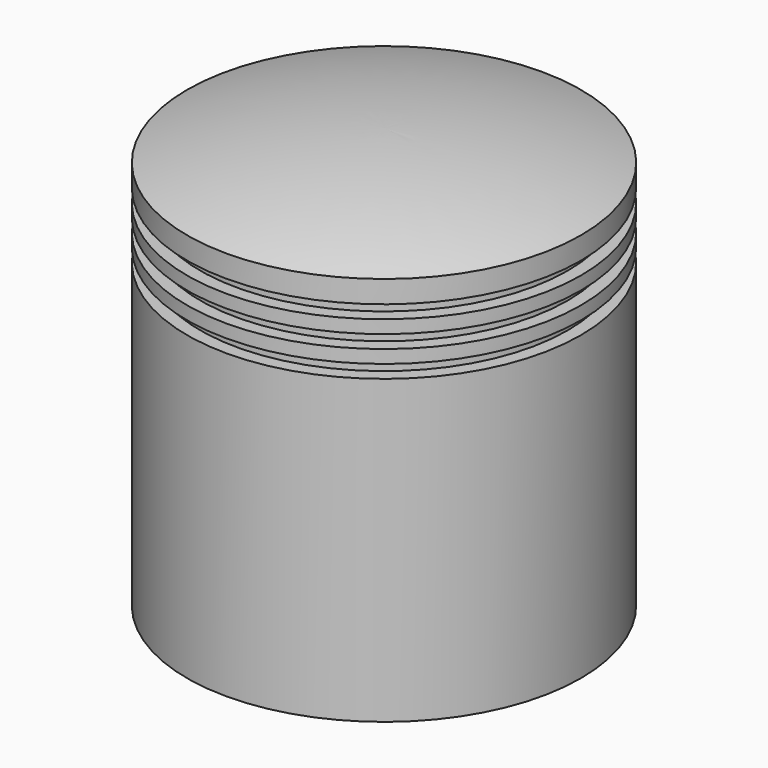
from build123d import *

# Parameters (mm, degrees)
F2_R     = 65
F3_DEPTH = 65
F4_R     = 60
F5_DEPTH = 70
F6_W     = 21.767249
F6_H     = 5
F6_W_2   = 16.611919
F6_W_3   = 21.870964


with BuildPart() as f1:
    # F0 (on Front) → F1 (revolve)
    with BuildSketch(Plane.XZ):
        with BuildLine():
            Line((0, 160), (0, 0))
            Line((0, 0), (75, 0))
            Line((75, 0), (75, 148.4848))
            ThreePointArc((75, 148.4848), (37.939425, 157.104431), (0, 160))
        make_face()
    revolve(axis=Axis((0, 0, 80), (0, 0, 1)))

    # F2 (on face) → F3 (cut)
    with BuildSketch(Plane(origin=(0, 0, 0), x_dir=(1, 0, 0), z_dir=(0, 0, -1))):
        Circle(F2_R)
    extrude(amount=-F3_DEPTH, mode=Mode.SUBTRACT)

    # F4 (on face) → F5 (cut)
    with BuildSketch(Plane(origin=(0, 0, 65), x_dir=(1, 0, 0), z_dir=(0, 0, -1))):
        Circle(F4_R)
    extrude(amount=-F5_DEPTH, mode=Mode.SUBTRACT)

    # F6 (on Front) → F7 (revolve, cut)
    with BuildSketch(Plane.XZ):
        with Locations((80.883624, 137.5)):
            Rectangle(F6_W, F6_H)
        with Locations((78.30596, 117.5)):
            Rectangle(F6_W_2, F6_H)
        with Locations((80.935482, 127.5)):
            Rectangle(F6_W_3, F6_H)
    revolve(axis=Axis((0, 0, 0), (0, 0, -1)), mode=Mode.SUBTRACT)


solid = f1.part
